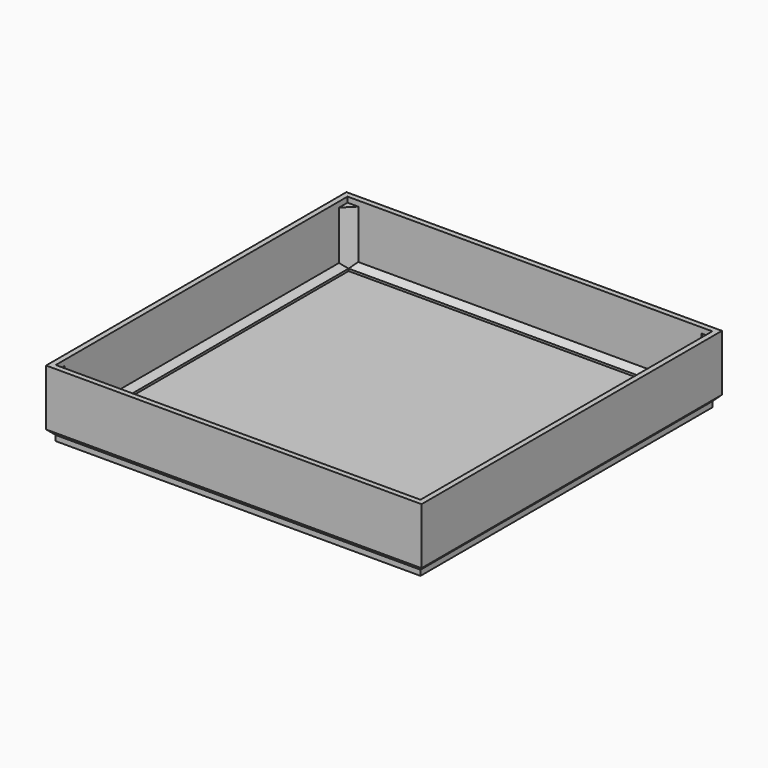
from build123d import *

# Parameters (mm, degrees)
F1_DEPTH = 70
F3_DEPTH = 70
F4_COUNT = 4
F5_T     = -2
F7_DEPTH = 23
F8_DEPTH = 2


with BuildPart() as f1:
    # F0 (on Front) → F1 (new body)
    with BuildSketch(Plane.XZ):
        Polygon((0, 25), (0, 0), (68, 0), (68, 2), (70, 4), (70, 25), align=None)
    extrude(amount=-F1_DEPTH)

    # F2 (on Right) → F3 (intersect, through all)
    with BuildSketch(Plane.YZ):
        Polygon((0, 25), (0, 0), (68, 0), (68, 2), (70, 4), (70, 25), align=None)
    extrude(amount=F3_DEPTH, mode=Mode.INTERSECT)

    # F4: F1 ×4 about axis
    f4_axis = Axis((0, 0, 12.5), (0, 0, 1))


with BuildPart() as f1_1:
    add(f1.part)
    for i in range(1, F4_COUNT):
        add(f1.part.rotate(f4_axis, i * 360 / F4_COUNT))

    # F5
    f5_openings = [f1_1.faces().sort_by_distance(p)[0] for p in [
        (0, 0, 25),
    ]]
    offset(amount=F5_T, openings=f5_openings, kind=Kind.INTERSECTION)

    # F6 (on face) → F7 (join, through all)
    with BuildSketch(Plane.XY.offset(25)):
        Polygon((-66, -66), (-68, -64), (-68, -68), (-64, -68), align=None)
        Polygon((68, -68), (68, -64), (64, -68), align=None)
        Polygon((68, 68), (64, 68), (66, 66), (68, 64), align=None)
        Polygon((-64, 68), (-68, 68), (-68, 64), (-66, 66), align=None)
    extrude(amount=-F7_DEPTH)

    # F6 (on face) → F8 (cut)
    with BuildSketch(Plane.XY.offset(25)):
        Polygon((68, -68), (68, -64), (64, -68), align=None)
        Polygon((68, 68), (64, 68), (66, 66), (68, 64), align=None)
        Polygon((-64, 68), (-68, 68), (-68, 64), (-66, 66), align=None)
        Polygon((-66, -66), (-68, -64), (-68, -68), (-64, -68), align=None)
    extrude(amount=-F8_DEPTH, mode=Mode.SUBTRACT)


solid = f1_1.part
